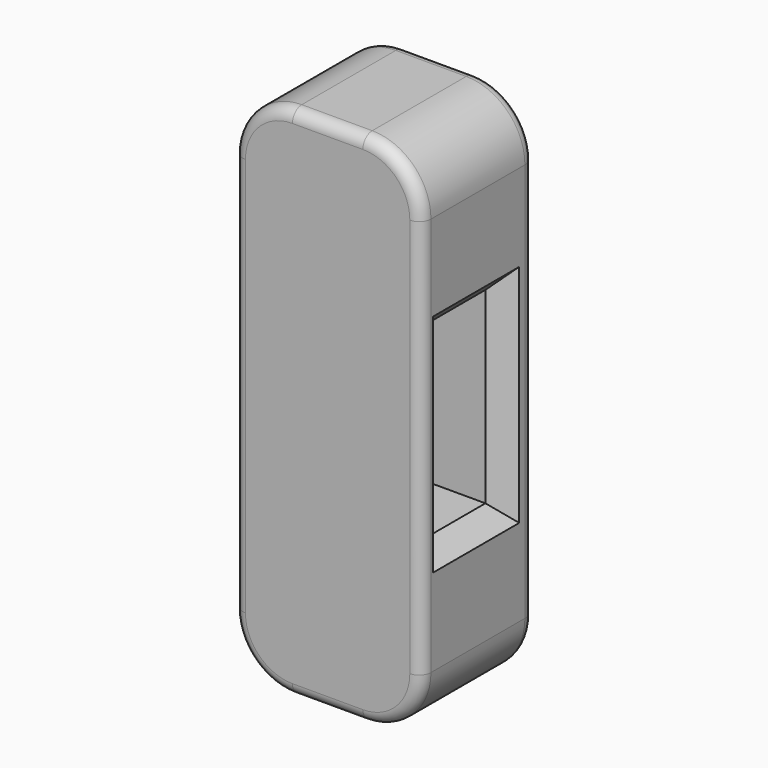
from build123d import *

# Parameters (mm, degrees)
F1_DEPTH = 38.1
F2_R     = 3.175
F3_W     = 19.05
F3_H     = 50.8
F4_DEPTH = 50.801
F5_SIZE  = 5.08


with BuildPart() as f1:
    # F0 (on Front) → F1 (new body)
    with BuildSketch(Plane.XZ):
        with BuildLine():
            Line((9.525, 69.85), (-9.525, 69.85))
            ThreePointArc((-9.525, 69.85), (-20.7503201513, 65.2003201513), (-25.4, 53.975))
            Line((-25.4, 53.975), (-25.4, -53.975))
            ThreePointArc((-25.4, -53.975), (-20.7503201513, -65.2003201513), (-9.525, -69.85))
            Line((-9.525, -69.85), (9.525, -69.85))
            ThreePointArc((9.525, -69.85), (20.7503201513, -65.2003201513), (25.4, -53.975))
            Line((25.4, -53.975), (25.4, 53.975))
            ThreePointArc((25.4, 53.975), (20.7503201513, 65.2003201513), (9.525, 69.85))
        make_face()
    extrude(amount=F1_DEPTH)

    # F2
    f2_edges = [f1.edges().sort_by_distance(p)[0] for p in [
        (25.4, -38.1, 0),
        (25.4, 0, 0),
    ]]
    fillet(f2_edges, radius=F2_R)

    # F3 (on face) → F4 (cut, through all)
    with BuildSketch(Plane.YZ.offset(25.4)):
        with Locations((-19.6936223656, 0)):
            Rectangle(F3_W, F3_H)
    extrude(amount=-F4_DEPTH, mode=Mode.SUBTRACT)

    # F5
    f5_edges = [f1.edges().sort_by_distance(p)[0] for p in [
        (-25.4, -19.05, 53.975),
        (-25.4, -3.175, 0),
        (-25.4, -34.925, 0),
        (-25.4, -19.05, -53.975),
        (-25.4, -19.693622, -25.4),
        (-25.4, -10.168622, 0),
        (-25.4, -19.693622, 25.4),
        (-25.4, -29.218622, 0),
        (25.4, -19.05, -53.975),
        (25.4, -3.175, 0),
        (25.4, -34.925, 0),
        (25.4, -19.05, 53.975),
        (25.4, -29.218622, 0),
        (25.4, -19.693622, 25.4),
        (25.4, -10.168622, 0),
        (25.4, -19.693622, -25.4),
    ]]
    chamfer(f5_edges, length=F5_SIZE)


solid = f1.part
